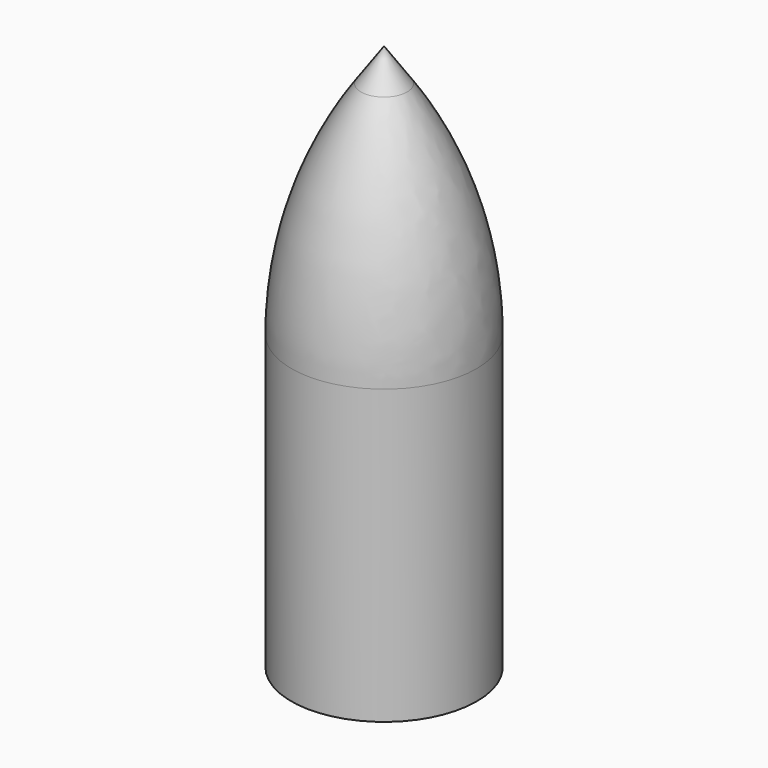
from build123d import *

# Parameters (mm, degrees)
F0_R     = 15.286331743
F0_R_2   = 12
F1_DEPTH = 68.326
F2_R     = 15.286331743
F3_DEPTH = 25.4
F3_TAPER = 35
F4_R     = 63.5


with BuildPart() as f1:
    # F0 (on Top) → F1 (new body)
    with BuildSketch(Plane.XY):
        Circle(F0_R)
        Circle(F0_R_2, mode=Mode.SUBTRACT)
    extrude(amount=F1_DEPTH)

    # F2 (on face) → F3 (join)
    with BuildSketch(Plane.XY.offset(68.326)):
        Circle(F2_R)
    extrude(amount=F3_DEPTH, taper=F3_TAPER)

    # F4
    f4_edges = [f1.edges().sort_by_distance(p)[0] for p in [
        (-15.286332, 0, 68.326),
    ]]
    fillet(f4_edges, radius=F4_R)


solid = f1.part
